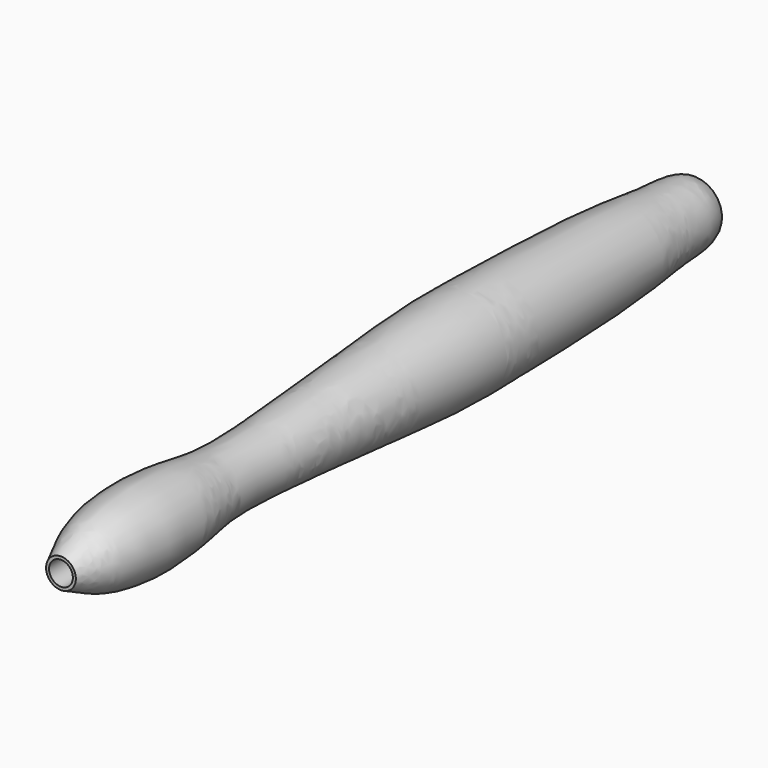
from build123d import *

# Parameters (mm, degrees)
F2_R     = 2
F3_DEPTH = 125


with BuildPart() as f1:
    # F0 (on Right) → F1 (revolve)
    with BuildSketch(Plane.YZ):
        with BuildLine():
            Line((0, 2.5), (0, 0))
            Line((0, 0), (135, 0))
            add(Edge.make_bspline(
                [(0, 2.5), (2.9100003902, 3.8614538084), (6.5270231037, 5.8791979043), (15.9804083836, 7.1235935207), (25.793646371, 6.0997173001), (32.7128018187, 4.7476007088), (46.3921682203, 5.4906550917), (62.5601558288, 6.6832424714), (77.1448027523, 7.8408425392), (85.9039362798, 7.8506417271), (102.8345681094, 7.5146665051), (116.4783934269, 6.937004007), (126.1870944954, 5.617038809), (134.011583316, 5.5246389857), (134.3843781216, 2.0134394422), (135, 0)],
                knots=[0, 0, 0, 0, 0.0657193693, 0.1378134011, 0.212539547, 0.2757298921, 0.3628810336, 0.4617215583, 0.5516843283, 0.6229315696, 0.7206210771, 0.810537209, 0.8862648158, 0.9469751735, 1, 1, 1, 1], degree=3))
        make_face()
    revolve(axis=Axis((0, 67.5, 0), (0, 1, 0)))

    # F2 (on Front) → F3 (cut)
    with BuildSketch(Plane.XZ):
        Circle(F2_R)
    extrude(amount=-F3_DEPTH, mode=Mode.SUBTRACT)


solid = f1.part
